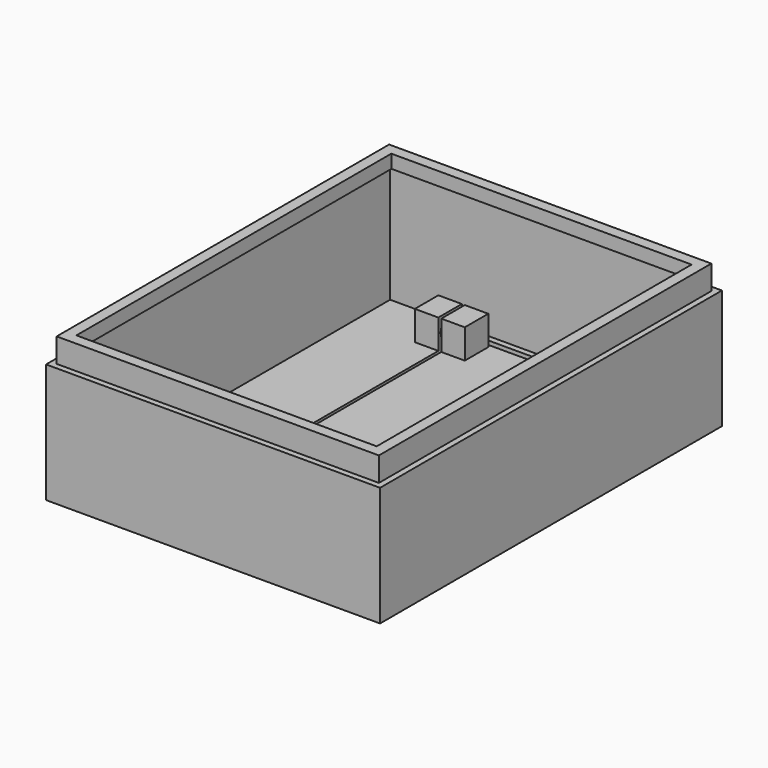
from build123d import *

# Parameters (mm, degrees)
F0_W      = 56.87
F0_H      = 24.46
F1_DEPTH  = 36.38
F2_W      = 51.13
F2_H      = 67.02
F3_DEPTH  = 22.63
F4_W      = 51.13
F4_H      = 20.36
F5_DEPTH  = 1
F6_W      = 68.02
F6_H      = 20.34
F7_DEPTH  = 1
F8_W      = 52.13
F8_H      = 20.34
F9_DEPTH  = 1
F10_W     = 69.02
F10_H     = 20.34
F11_DEPTH = 1
F12_W     = 56.87
F12_H     = 72.76
F12_W_2   = 54.87
F12_H_2   = 70.76
F13_DEPTH = 4.12
F15_W     = 4
F15_H     = 5
F16_DEPTH = 5
F17_W     = 4
F17_H     = 5
F18_DEPTH = 5
F19_R     = 2
F20_DEPTH = 32.71
F14_W     = 24.71
F14_H     = 43.71
F14_W_2   = 23.71
F14_H_2   = 42.71
F21_DEPTH = 1.831
F22_W     = 4
F22_H     = 5
F23_DEPTH = 5
F24_R     = 1.625
F25_DEPTH = 4.5
F26_R     = 1.625
F27_DEPTH = 4.5
F28_W     = 23.71
F28_H     = 0.5
F29_DEPTH = 1.831


with BuildPart() as f1:
    # F0 (on Front) → F1 (new body, symmetric)
    with BuildSketch(Plane.XZ):
        Rectangle(F0_W, F0_H)
    extrude(amount=F1_DEPTH, both=True)

    # F2 (on face) → F3 (cut)
    with BuildSketch(Plane.XY.offset(12.23)):
        Rectangle(F2_W, F2_H)
    extrude(amount=-F3_DEPTH, mode=Mode.SUBTRACT)

    # F4 (on face) → F5 (cut)
    with BuildSketch(Plane.XZ.offset(-33.51)):
        with Locations((0, -0.22)):
            Rectangle(F4_W, F4_H)
    extrude(amount=-F5_DEPTH, mode=Mode.SUBTRACT)

    # F6 (on face) → F7 (cut)
    with BuildSketch(Plane.YZ.offset(-25.565)):
        with Locations((0.5, -0.23)):
            Rectangle(F6_W, F6_H)
    extrude(amount=-F7_DEPTH, mode=Mode.SUBTRACT)

    # F8 (on face) → F9 (cut)
    with BuildSketch(Plane(origin=(0, -33.51, 0), x_dir=(-1, 0, 0), z_dir=(0, 1, 0))):
        with Locations((0.5, -0.23)):
            Rectangle(F8_W, F8_H)
    extrude(amount=-F9_DEPTH, mode=Mode.SUBTRACT)

    # F10 (on face) → F11 (cut)
    with BuildSketch(Plane(origin=(25.565, 0, 0), x_dir=(0, -1, 0), z_dir=(-1, 0, 0))):
        with Locations((0, -0.23)):
            Rectangle(F10_W, F10_H)
    extrude(amount=-F11_DEPTH, mode=Mode.SUBTRACT)

    # F12 (on face) → F13 (cut)
    with BuildSketch(Plane.XY.offset(12.23)):
        Rectangle(F12_W, F12_H)
        Rectangle(F12_W_2, F12_H_2, mode=Mode.SUBTRACT)
    extrude(amount=-F13_DEPTH, mode=Mode.SUBTRACT)

    # F15 (on face) → F16 (join)
    with BuildSketch(Plane.XY.offset(-10.4)):
        with Locations((-14.355, 29.51)):
            Rectangle(F15_W, F15_H)
    extrude(amount=F16_DEPTH)

    # F17 (on face) → F18 (join)
    with BuildSketch(Plane.XY.offset(-10.4)):
        with Locations((14.355, 29.51)):
            Rectangle(F17_W, F17_H)
    extrude(amount=F18_DEPTH)

    # F19 (on face) → F20 (cut, through all)
    with BuildSketch(Plane(origin=(-16.355, 0, 0), x_dir=(0, -1, 0), z_dir=(-1, 0, 0))):
        with Locations((-29.51, -7.9)):
            Circle(F19_R)
    extrude(amount=-F20_DEPTH, mode=Mode.SUBTRACT)

    # F14 (on face) → F21 (cut, through all)
    with BuildSketch(Plane.XY.offset(-10.4)):
        with Locations((0, 11.655)):
            Rectangle(F14_W, F14_H)
        with Locations((0, 11.655)):
            Rectangle(F14_W_2, F14_H_2, mode=Mode.SUBTRACT)
    extrude(amount=-F21_DEPTH, mode=Mode.SUBTRACT)

    # F22 (on face) → F23 (join)
    with BuildSketch(Plane.XY.offset(-10.4)):
        with Locations((-9.855, 29.51)):
            Rectangle(F22_W, F22_H)
        with Locations((9.855, 29.51)):
            Rectangle(F22_W, F22_H)
    extrude(amount=F23_DEPTH)

    # F24 (on face) → F25 (join)
    with BuildSketch(Plane(origin=(-11.855, 0, 0), x_dir=(0, -1, 0), z_dir=(-1, 0, 0))):
        with Locations((-29.51, -7.9)):
            Circle(F24_R)
    extrude(amount=F25_DEPTH)

    # F26 (on face) → F27 (join)
    with BuildSketch(Plane.YZ.offset(11.855)):
        with Locations((29.51, -7.9)):
            Circle(F26_R)
    extrude(amount=F27_DEPTH)

    # F28 (on face) → F29 (cut, through all)
    with BuildSketch(Plane.XY.offset(-10.4)):
        with Locations((0, 32.76)):
            Rectangle(F28_W, F28_H)
        with Locations((0, -9.45)):
            Rectangle(F28_W, F28_H)
    extrude(amount=-F29_DEPTH, mode=Mode.SUBTRACT)


solid = f1.part
